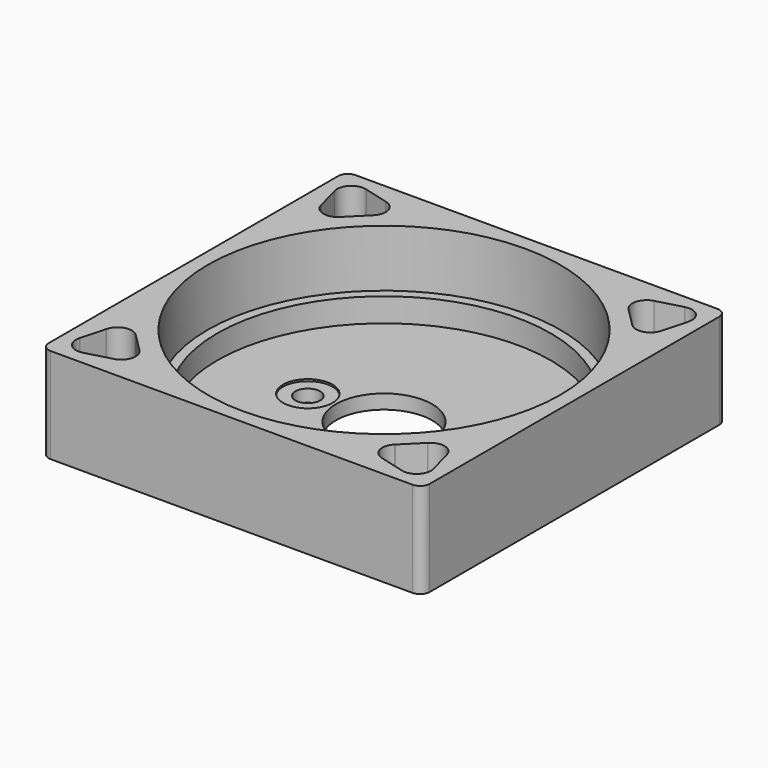
from build123d import *

# Parameters (mm, degrees)
SKETCH_W        = 40
SKETCH_H        = 40
SKETCH_R        = 5.05
PAD_DEPTH       = 10
SKETCH001_R     = 1.3
POCKET_DEPTH    = 10.001
SKETCH002_R     = 2.6
POCKET001_DEPTH = 8.7
SKETCH005_R     = 1.5
POCKET003_DEPTH = 10.001
POCKET004_DEPTH = 6
SKETCH006_R     = 18.5
POCKET005_DEPTH = 6
SKETCH007_R     = 17.5
POCKET006_DEPTH = 2.5
FILLET_R        = 1


with BuildPart() as part:
    # Sketch → Pad (new body)
    with BuildSketch(Plane.XY):
        Rectangle(SKETCH_W, SKETCH_H)
        Circle(SKETCH_R, mode=Mode.SUBTRACT)
    extrude(amount=PAD_DEPTH)

    # Sketch001 (on Face7 of Pad) → Pocket (cut, through all)
    with BuildSketch(Plane.XY.offset(10)):
        with Locations((8, 0)):
            Circle(SKETCH001_R)
        with Locations((-8, 0)):
            Circle(SKETCH001_R)
    extrude(amount=-POCKET_DEPTH, mode=Mode.SUBTRACT)

    # Sketch002 (on Face5 of Pocket) → Pocket001 (cut)
    with BuildSketch(Plane.XY.offset(10)):
        with Locations((-8, 0)):
            Circle(SKETCH002_R)
        with Locations((8, 0)):
            Circle(SKETCH002_R)
    extrude(amount=-POCKET001_DEPTH, mode=Mode.SUBTRACT)

    # Sketch005 (on Face5 of Pocket001) → Pocket003 (cut, through all)
    with BuildSketch(Plane.XY.offset(10)):
        with Locations((-16, 16)):
            Circle(SKETCH005_R)
        with Locations((16, 16)):
            Circle(SKETCH005_R)
        with Locations((-16, -16)):
            Circle(SKETCH005_R)
        with Locations((16, -16)):
            Circle(SKETCH005_R)
    extrude(amount=-POCKET003_DEPTH, mode=Mode.SUBTRACT)

    # Sketch004 (on Face5 of Pocket003) → Pocket004 (cut)
    with BuildSketch(Plane.XY.offset(10)):
        with BuildLine():
            Line((13.434683, 15.312625), (15.312625, 13.434683))
            Line((15.312625, 13.434683), (15.35345, 13.393859))
            ThreePointArc((15.35345, 13.393859), (16.802339, 13.00563), (17.862999, 14.06629))
            Line((17.877942, 14.122058), (17.862999, 14.06629))
            Line((17.877942, 14.122058), (18.565317, 16.687375))
            Line((18.565317, 16.687375), (18.58026, 16.743142))
            ThreePointArc((18.58026, 16.743142), (18.192031, 18.192031), (16.743142, 18.58026))
            Line((16.687375, 18.565317), (16.743142, 18.58026))
            Line((16.687375, 18.565317), (14.122058, 17.877942))
            Line((14.122058, 17.877942), (14.06629, 17.862999))
            ThreePointArc((14.06629, 17.862999), (13.00563, 16.802339), (13.393859, 15.35345))
            Line((13.434683, 15.312625), (13.393859, 15.35345))
        make_face()
        with BuildLine():
            Line((14.122058, -17.877942), (16.687375, -18.565317))
            Line((16.687375, -18.565317), (16.743142, -18.58026))
            ThreePointArc((16.743142, -18.58026), (18.192031, -18.192031), (18.58026, -16.743142))
            Line((18.565317, -16.687375), (18.58026, -16.743142))
            Line((18.565317, -16.687375), (17.877942, -14.122058))
            Line((17.877942, -14.122058), (17.862999, -14.06629))
            ThreePointArc((17.862999, -14.06629), (16.802339, -13.00563), (15.35345, -13.393859))
            Line((15.312625, -13.434683), (15.35345, -13.393859))
            Line((15.312625, -13.434683), (13.434683, -15.312625))
            Line((13.434683, -15.312625), (13.393859, -15.35345))
            ThreePointArc((13.393859, -15.35345), (13.00563, -16.802339), (14.06629, -17.862999))
            Line((14.122058, -17.877942), (14.06629, -17.862999))
        make_face()
        with BuildLine():
            Line((-14.122058, 17.877942), (-16.687375, 18.565317))
            Line((-16.687375, 18.565317), (-16.743142, 18.58026))
            ThreePointArc((-16.743142, 18.58026), (-18.192031, 18.192031), (-18.58026, 16.743142))
            Line((-18.565317, 16.687375), (-18.58026, 16.743142))
            Line((-18.565317, 16.687375), (-17.877942, 14.122058))
            Line((-17.877942, 14.122058), (-17.862999, 14.06629))
            ThreePointArc((-17.862999, 14.06629), (-16.802339, 13.00563), (-15.35345, 13.393859))
            Line((-15.312625, 13.434683), (-15.35345, 13.393859))
            Line((-15.312625, 13.434683), (-13.434683, 15.312625))
            Line((-13.434683, 15.312625), (-13.393859, 15.35345))
            ThreePointArc((-13.393859, 15.35345), (-13.00563, 16.802339), (-14.06629, 17.862999))
            Line((-14.122058, 17.877942), (-14.06629, 17.862999))
        make_face()
        with BuildLine():
            Line((-13.434683, -15.312625), (-15.312625, -13.434683))
            Line((-15.312625, -13.434683), (-15.35345, -13.393859))
            ThreePointArc((-15.35345, -13.393859), (-16.802339, -13.00563), (-17.862999, -14.06629))
            Line((-17.877942, -14.122058), (-17.862999, -14.06629))
            Line((-17.877942, -14.122058), (-18.565317, -16.687375))
            Line((-18.565317, -16.687375), (-18.58026, -16.743142))
            ThreePointArc((-18.58026, -16.743142), (-18.192031, -18.192031), (-16.743142, -18.58026))
            Line((-16.687375, -18.565317), (-16.743142, -18.58026))
            Line((-16.687375, -18.565317), (-14.122058, -17.877942))
            Line((-14.122058, -17.877942), (-14.06629, -17.862999))
            ThreePointArc((-14.06629, -17.862999), (-13.00563, -16.802339), (-13.393859, -15.35345))
            Line((-13.434683, -15.312625), (-13.393859, -15.35345))
        make_face()
    extrude(amount=-POCKET004_DEPTH, mode=Mode.SUBTRACT)

    # Sketch006 (on Face5 of Pocket004) → Pocket005 (cut)
    with BuildSketch(Plane.XY.offset(10)):
        Circle(SKETCH006_R)
    extrude(amount=-POCKET005_DEPTH, mode=Mode.SUBTRACT)

    # Sketch007 (on Face67 of Pocket005) → Pocket006 (cut)
    with BuildSketch(Plane.XY.offset(4)):
        Circle(SKETCH007_R)
    extrude(amount=-POCKET006_DEPTH, mode=Mode.SUBTRACT)

    # Fillet
    fillet_edges = [part.edges().sort_by_distance(p)[0] for p in [
        (20, -20, 5),
        (-20, -20, 5),
        (-20, 20, 5),
        (20, 20, 5),
    ]]
    fillet(fillet_edges, radius=FILLET_R)


solid = part.part
